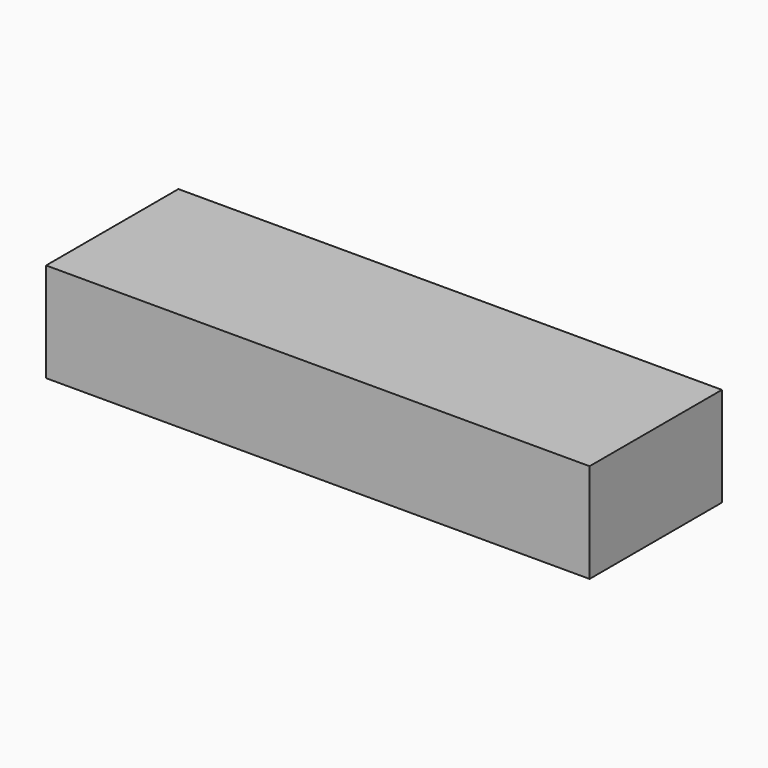
from build123d import *

# Parameters (mm, degrees)
SKETCH_W  = 115
SKETCH_H  = 35
PAD_DEPTH = 21


with BuildPart() as part:
    # Sketch → Pad (new body)
    with BuildSketch(Plane.XY):
        with Locations((57.5, 17.5)):
            Rectangle(SKETCH_W, SKETCH_H)
    extrude(amount=PAD_DEPTH)


solid = part.part
